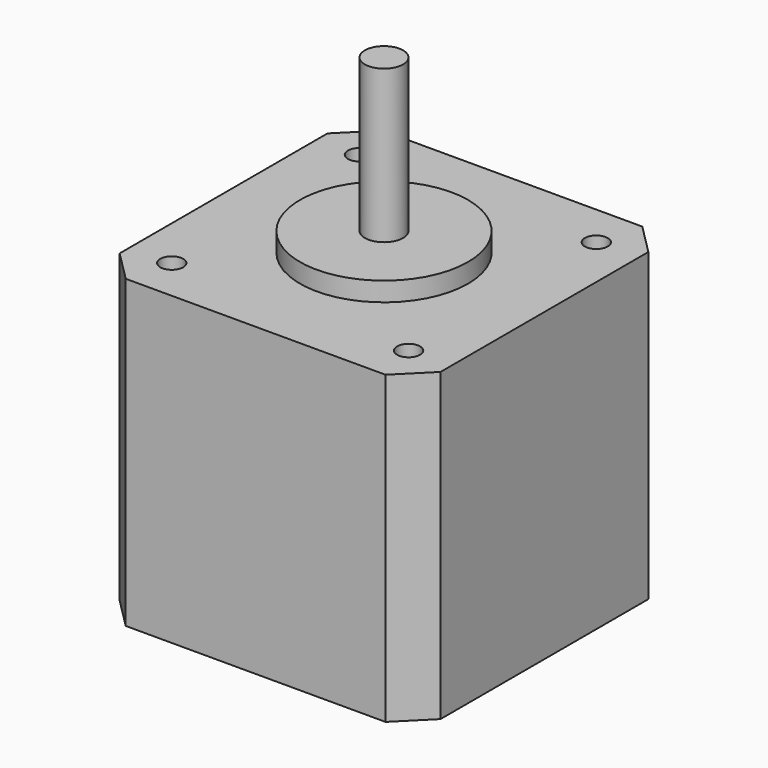
from build123d import *

# Parameters (mm, degrees)
SKETCH_W     = 42
SKETCH_H     = 42
PAD_DEPTH    = 40
CHAMFER_SIZE = 4
SKETCH001_R  = 11
PAD001_DEPTH = 2.5
SKETCH002_R  = 2.5
PAD002_DEPTH = 20
SKETCH003_R  = 1.5
POCKET_DEPTH = 7


with BuildPart() as part:
    # Sketch → Pad (new body)
    with BuildSketch(Plane.XY):
        Rectangle(SKETCH_W, SKETCH_H)
    extrude(amount=PAD_DEPTH)

    # Chamfer
    chamfer_edges = [part.edges().sort_by_distance(p)[0] for p in [
        (21, -21, 20),
        (-21, -21, 20),
        (-21, 21, 20),
        (21, 21, 20),
    ]]
    chamfer(chamfer_edges, length=CHAMFER_SIZE)

    # Sketch001 (on Face5 of Chamfer) → Pad001 (join)
    with BuildSketch(Plane.XY.offset(40)):
        Circle(SKETCH001_R)
    extrude(amount=PAD001_DEPTH)

    # Sketch002 (on Face12 of Pad001) → Pad002 (join)
    with BuildSketch(Plane.XY.offset(42.5)):
        Circle(SKETCH002_R)
    extrude(amount=PAD002_DEPTH)

    # Sketch003 (on Face5 of Pad002) → Pocket (cut)
    with BuildSketch(Plane.XY.offset(40)):
        with Locations((-15.5, 15.350468)):
            Circle(SKETCH003_R)
        with Locations((15.5, 15.350468)):
            Circle(SKETCH003_R)
        with Locations((15.5, -15.350468)):
            Circle(SKETCH003_R)
        with Locations((-15.5, -15.350468)):
            Circle(SKETCH003_R)
    extrude(amount=-POCKET_DEPTH, mode=Mode.SUBTRACT)


solid = part.part
